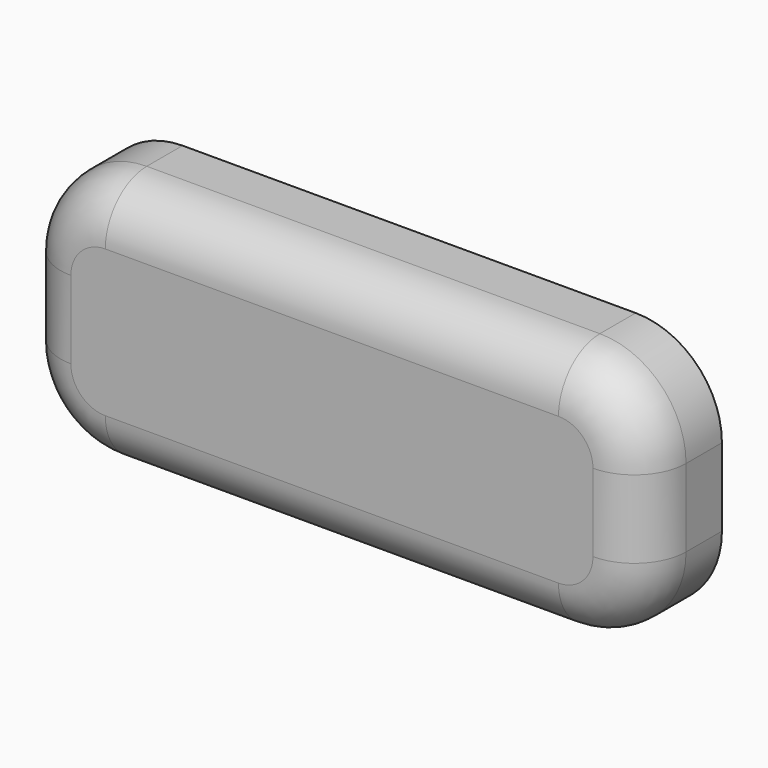
from build123d import *

# Parameters (mm, degrees)
F1_DEPTH = 7.112
F2_R     = 3.81


with BuildPart() as f1:
    # F0 (on Front) → F1 (new body)
    with BuildSketch(Plane.XZ):
        with BuildLine():
            Line((-19.773078, 41.113582), (-53.155455, 41.113582))
            ThreePointArc((-53.155455, 41.113582), (-57.645583, 39.25371), (-59.505455, 34.763582))
            Line((-59.505455, 34.763582), (-59.505455, 29.029039))
            ThreePointArc((-59.505455, 29.029039), (-57.645583, 24.53891), (-53.155455, 22.679039))
            Line((-53.155455, 22.679039), (-19.773078, 22.679039))
            ThreePointArc((-19.773078, 22.679039), (-15.28295, 24.53891), (-13.423078, 29.029039))
            Line((-13.423078, 29.029039), (-13.423078, 34.763582))
            ThreePointArc((-13.423078, 34.763582), (-15.28295, 39.25371), (-19.773078, 41.113582))
        make_face()
    extrude(amount=F1_DEPTH)

    # F2
    f2_edges = [f1.edges().sort_by_distance(p)[0] for p in [
        (-13.423078, -7.112, 31.89631),
        (-15.28295, -7.112, 39.25371),
        (-36.464266, -7.112, 41.113582),
        (-57.645583, -7.112, 39.25371),
        (-59.505455, -7.112, 31.89631),
        (-57.645583, -7.112, 24.53891),
        (-36.464266, -7.112, 22.679039),
        (-15.28295, -7.112, 24.53891),
    ]]
    fillet(f2_edges, radius=F2_R)


solid = f1.part
